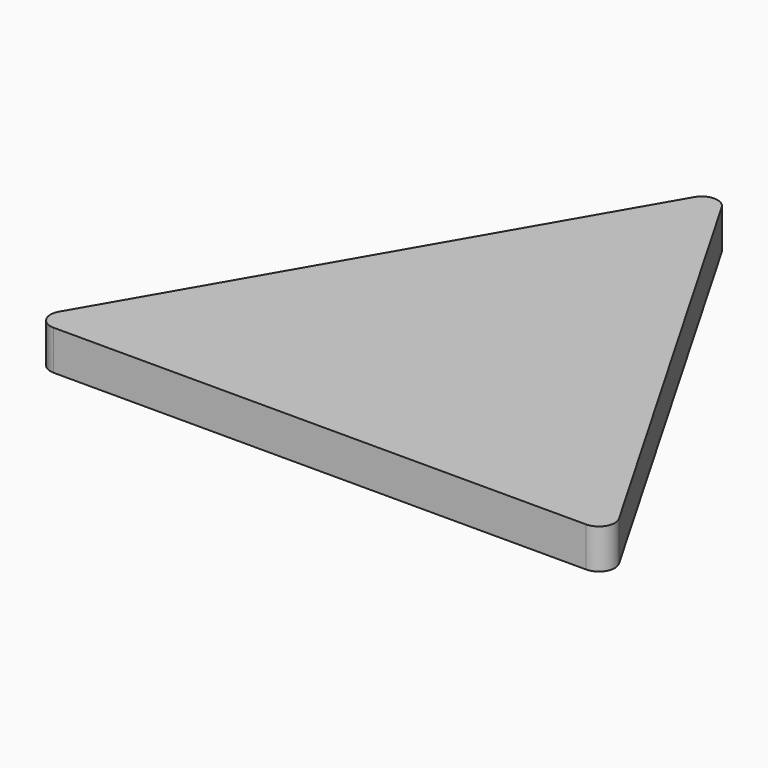
from build123d import *

# Parameters (mm, degrees)
F1_DEPTH = 15


with BuildPart() as f1:
    # F0 (on Top) → F1 (new body)
    with BuildSketch(Plane.XY):
        with BuildLine():
            ThreePointArc((5.196152, -9), (0, -6), (-5.196152, -9))
            Line((-5.196152, -9), (-105.803848, -183.25764))
            ThreePointArc((-105.803848, -183.25764), (-105.803848, -189.25764), (-100.607695, -192.25764))
            Line((-100.607695, -192.25764), (100.607695, -192.25764))
            ThreePointArc((100.607695, -192.25764), (105.803848, -189.25764), (105.803848, -183.25764))
            Line((105.803848, -183.25764), (5.196152, -9))
        make_face()
    extrude(amount=F1_DEPTH)


solid = f1.part
